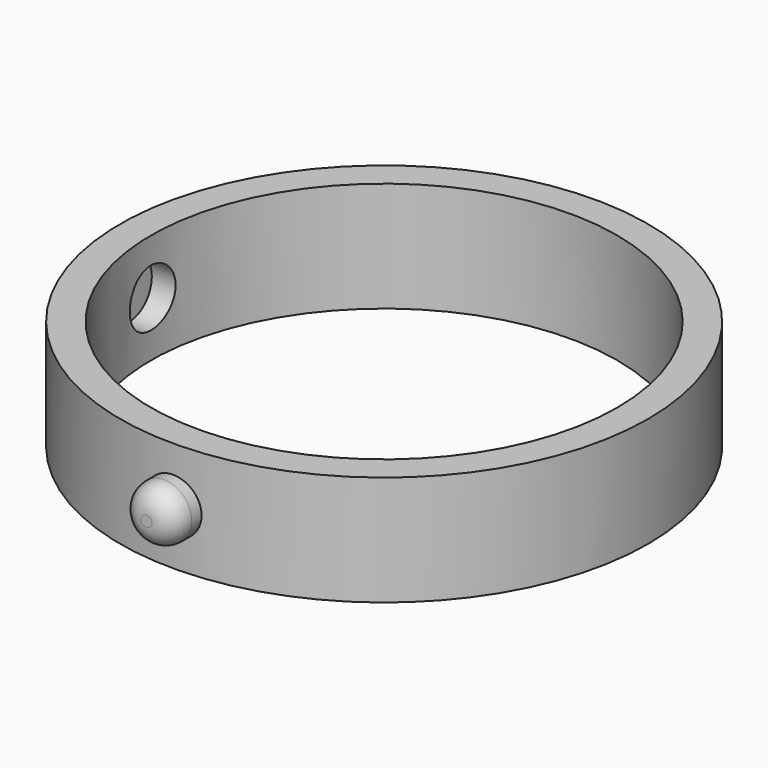
from build123d import *

# Parameters (mm, degrees)
F0_R          = 15.24
F1_DEPTH      = 3.175
F2_R          = 1.651
F3_DEPTH      = 14.732
F3_DEPTH_BACK = 14.732
F4_R          = 1.5875
F5_DEPTH      = 17.145
F6_R          = 13.462
F7_DEPTH      = 6.3510001
F8_R          = 1.27


with BuildPart() as f1:
    # F0 (on Top) → F1 (new body, symmetric)
    with BuildSketch(Plane.XY):
        Circle(F0_R)
    extrude(amount=F1_DEPTH, both=True)

    # F2 (on Right) → F3 (cut, two sides)
    with BuildSketch(Plane.YZ) as f3_sk:
        Circle(F2_R)
    extrude(amount=-F3_DEPTH, mode=Mode.SUBTRACT)
    extrude(f3_sk.sketch, amount=F3_DEPTH_BACK, mode=Mode.SUBTRACT)

    # F4 (on Front) → F5 (join, symmetric)
    with BuildSketch(Plane.XZ):
        Circle(F4_R)
    extrude(amount=F5_DEPTH, both=True)

    # F6 (on face) → F7 (cut, through all)
    with BuildSketch(Plane.XY.offset(3.175)):
        Circle(F6_R)
    extrude(amount=-F7_DEPTH, mode=Mode.SUBTRACT)

    # F8
    f8_edges = [f1.edges().sort_by_distance(p)[0] for p in [
        (-1.5875, -17.145, 0),
        (-1.5875, 17.145, 0),
    ]]
    fillet(f8_edges, radius=F8_R)


solid = f1.part
